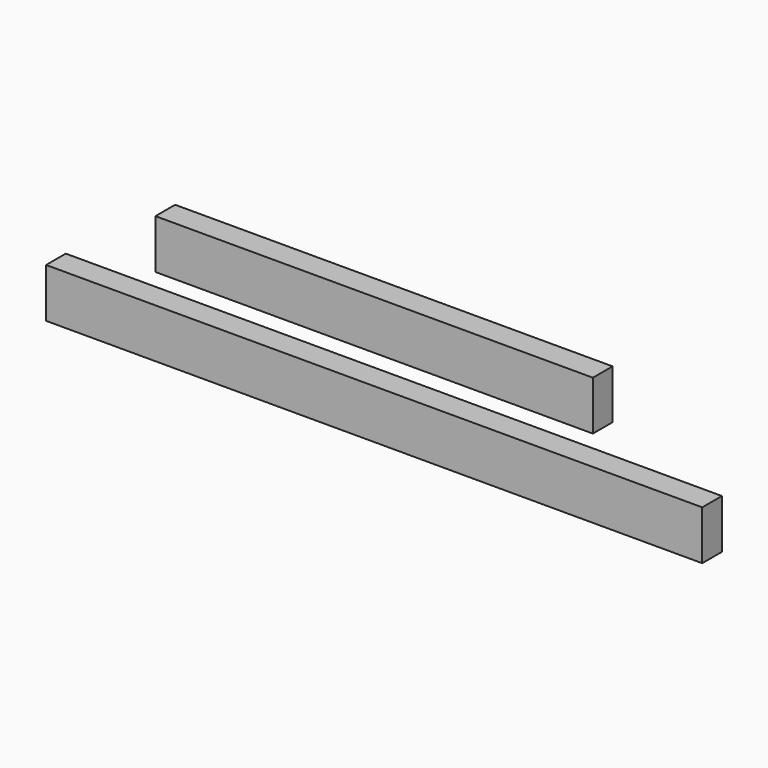
from build123d import *

# Parameters (mm, degrees)
F0_W     = 1200
F0_H     = 90
F1_DEPTH = 45
F2_W     = 800
F2_H     = 90
F3_DEPTH = 45


with BuildPart() as f1:
    # F0 (on Front) → F1 (new body)
    with BuildSketch(Plane.XZ):
        Rectangle(F0_W, F0_H)
    extrude(amount=F1_DEPTH)


with BuildPart() as f3:
    # F2 (on Front) → F3 (new body)
    with BuildSketch(Plane.XZ):
        with Locations((0, 143.679544)):
            Rectangle(F2_W, F2_H)
    extrude(amount=F3_DEPTH)


solid = Compound([f1.part, f3.part])
